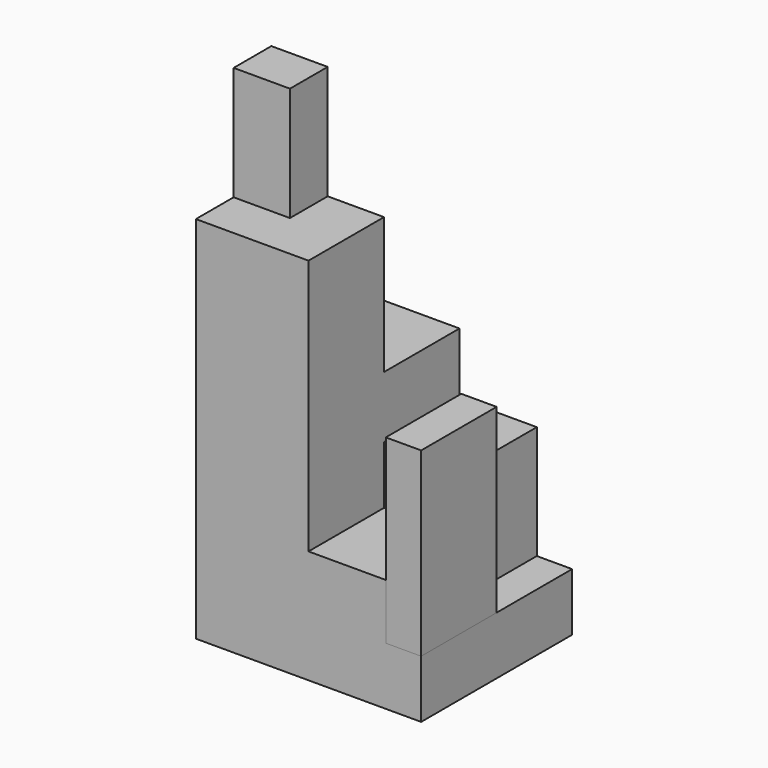
from build123d import *

# Parameters (mm, degrees)
F0_W      = 49.4665689766
F0_H      = 82.8934758902
F1_DEPTH  = 102.3439634591
F0_W_2    = 33.9484252036
F2_DEPTH  = 49.8349424452
F0_W_3    = 15.5181437731
F3_DEPTH  = 25.4
F4_W      = 49.4665689766
F4_H      = 41.4467379451
F7_DEPTH  = 59.9138829857
F8_W      = 24.7332844883
F8_H      = 20.7233689725
F9_DEPTH  = 50.0340741128
F5_W      = 33.9484252036
F5_H      = 41.4467379451
F10_DEPTH = 25.4
F6_W      = 15.5181437731
F6_H      = 41.4467379451
F11_DEPTH = 79.5750487596


with BuildPart() as f1:
    # F0 (on Top) → F1 (new body)
    with BuildSketch(Plane.XY):
        with Locations((-14.5046841353, -4.3277069926)):
            Rectangle(F0_W, F0_H)
    extrude(amount=F1_DEPTH)

    # F0 (on Top) → F2 (join)
    with BuildSketch(Plane.XY):
        with Locations((27.2028129548, -4.3277069926)):
            Rectangle(F0_W_2, F0_H)
    extrude(amount=F2_DEPTH)

    # F0 (on Top) → F3 (join)
    with BuildSketch(Plane.XY):
        with Locations((51.9360974431, -4.3277069926)):
            Rectangle(F0_W_3, F0_H)
    extrude(amount=F3_DEPTH)

    # F4 (on face) → F7 (join)
    with BuildSketch(Plane.XY.offset(102.3439634591)):
        with Locations((-14.5046841353, -25.0510759652)):
            Rectangle(F4_W, F4_H)
    extrude(amount=F7_DEPTH)

    # F8 (on face) → F9 (join)
    with BuildSketch(Plane.XY.offset(162.2578464448)):
        with Locations((-26.8713263795, -14.6893914789)):
            Rectangle(F8_W, F8_H)
    extrude(amount=F9_DEPTH)

    # F5 (on face) → F10 (join)
    with BuildSketch(Plane.XY.offset(49.8349424452)):
        with Locations((27.2028129548, 16.3956619799)):
            Rectangle(F5_W, F5_H)
    extrude(amount=F10_DEPTH)


with BuildPart() as f11:
    # F6 (on face) → F11 (new body)
    with BuildSketch(Plane.XY.offset(25.4)):
        with Locations((51.9360974431, -25.0510759652)):
            Rectangle(F6_W, F6_H)
    extrude(amount=F11_DEPTH)


solid = Compound([f1.part, f11.part])
